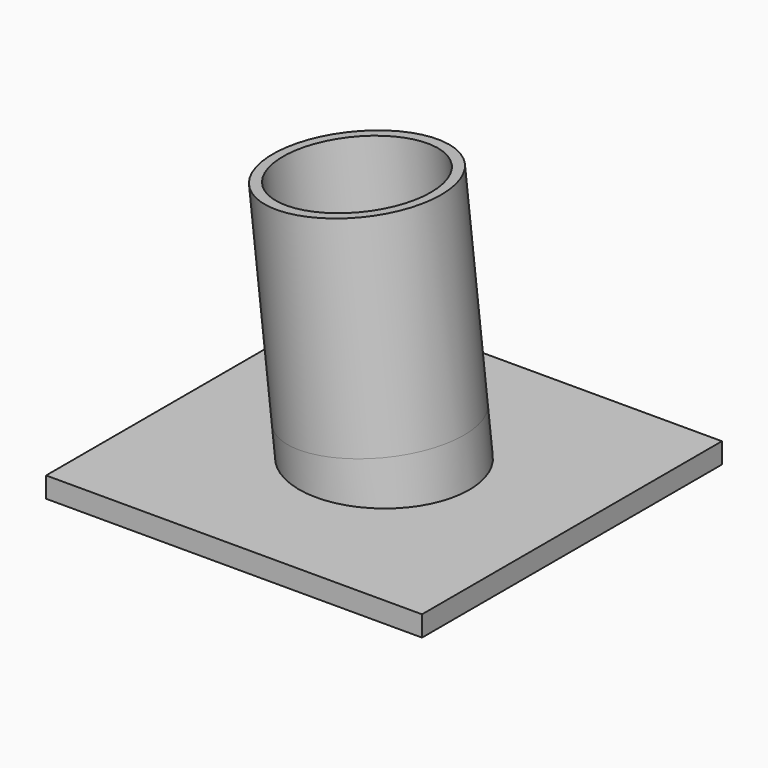
from build123d import *

# Parameters (mm, degrees)
F2_R     = 10.4775
F2_R_2   = 9.2075
F3_DEPTH = 25.4
F4_DEPTH = 25.4
F5_W     = 41.00275971
F5_H     = 25.6858672947
F6_DEPTH = 127
F7_W     = 46.4864122256
F7_H     = 46.355
F8_DEPTH = 2.54


with BuildPart() as f3:
    # F2 (on line) → F3 (new body)
    with BuildSketch(Plane(origin=(0, 0, 0), x_dir=(0.9937679192, 0, 0.1114689322), z_dir=(0.1114689322, 0, -0.9937679192))):
        with Locations((41.0343617785, 0)):
            Circle(F2_R)
        with Locations((41.0343617785, 0)):
            Circle(F2_R_2, mode=Mode.SUBTRACT)
    extrude(amount=-F3_DEPTH)

    # F4 (add): a face of the model
    f4_faces = [f3.faces().sort_by_distance(p)[0] for p in [
        (30.6609305302, 0, 3.4391743995),
    ]]
    extrude(f4_faces, amount=F4_DEPTH)

    # F5 (on Front) → F6 (cut, symmetric)
    with BuildSketch(Plane.XZ):
        with Locations((39.3967321143, -12.8429336473)):
            Rectangle(F5_W, F5_H)
    extrude(amount=F6_DEPTH, both=True, mode=Mode.SUBTRACT)

    # F7 (on Top) → F8 (join)
    with BuildSketch(Plane.XY):
        with Locations((41.2916949595, 0)):
            Rectangle(F7_W, F7_H)
    extrude(amount=-F8_DEPTH)


solid = f3.part
